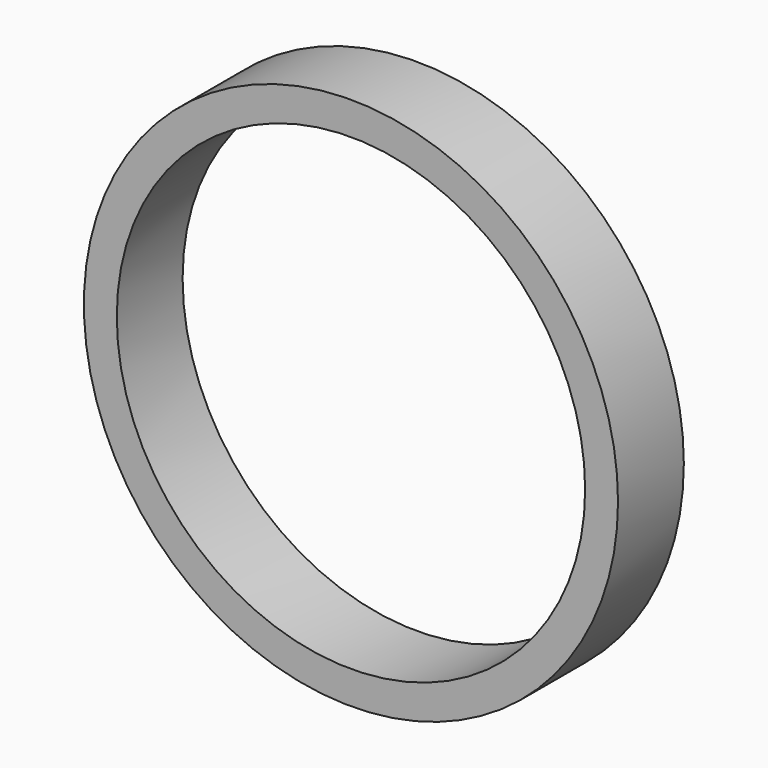
from build123d import *


with BuildPart() as f2:
    # F2: sweep along a path in F0
    with BuildLine(Plane.XZ) as f2_path:
        CenterArc((0, 0), 28.758744, 0, 360)
    # F1 (on Top) → F2 (sweep)
    with BuildSketch(Plane.XY):
        Polygon((-26.871741, 0), (-26.871741, 4.720711), (-30.645748, 4.720711), (-30.645748, -4.720711), (-26.871741, -4.720711), align=None)
    sweep(path=f2_path.line)


solid = f2.part
